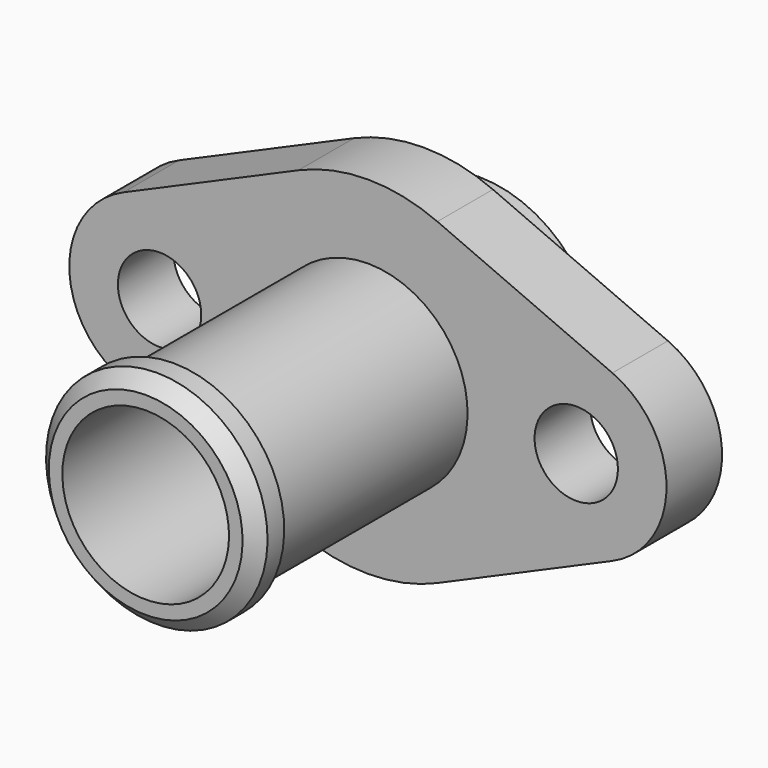
from build123d import *

# Parameters (mm, degrees)
F2_SIZE  = 1
F3_R     = 30
F4_DEPTH = 25
F3_R_2   = 3
F5_DEPTH = 25


with BuildPart() as f1:
    # F0 (on Right) → F1 (revolve)
    with BuildSketch(Plane.YZ):
        Polygon((-20, 7.975), (-20, 6), (10, 6), (10, 8.6), (3.1, 8.6), (3.1, 11.1), (5, 11.1), (5, 21.5), (0, 21.5), (0, 7.175), (-17.5, 7.175), (-17.5, 7.975), align=None)
    revolve(axis=Axis((0, -4.153569, 0), (0, 1, 0)))

    # F2
    f2_edges = [f1.edges().sort_by_distance(p)[0] for p in [
        (0, -20, -7.975),
    ]]
    chamfer(f2_edges, length=F2_SIZE)

    # F3 (on face) → F4 (cut)
    with BuildSketch(Plane.XZ):
        Circle(F3_R)
        with BuildLine():
            ThreePointArc((-17.6, -5.957348), (-21.5, 0), (-17.6, 5.957348))
            Line((-17.6, 5.957348), (-5, 11.456439))
            ThreePointArc((-5, 11.456439), (0, 12.5), (5, 11.456439))
            Line((5, 11.456439), (17.6, 5.957348))
            ThreePointArc((17.6, 5.957348), (21.5, 0), (17.6, -5.957348))
            Line((17.6, -5.957348), (5, -11.456439))
            ThreePointArc((5, -11.456439), (0, -12.5), (-5, -11.456439))
            Line((-5, -11.456439), (-17.6, -5.957348))
        make_face(mode=Mode.SUBTRACT)
    extrude(amount=-F4_DEPTH, mode=Mode.SUBTRACT)

    # F3 (on face) → F5 (cut)
    with BuildSketch(Plane.XZ):
        with Locations((15, 0)):
            Circle(F3_R_2)
        with Locations((-15, 0)):
            Circle(F3_R_2)
    extrude(amount=-F5_DEPTH, mode=Mode.SUBTRACT)


solid = f1.part
